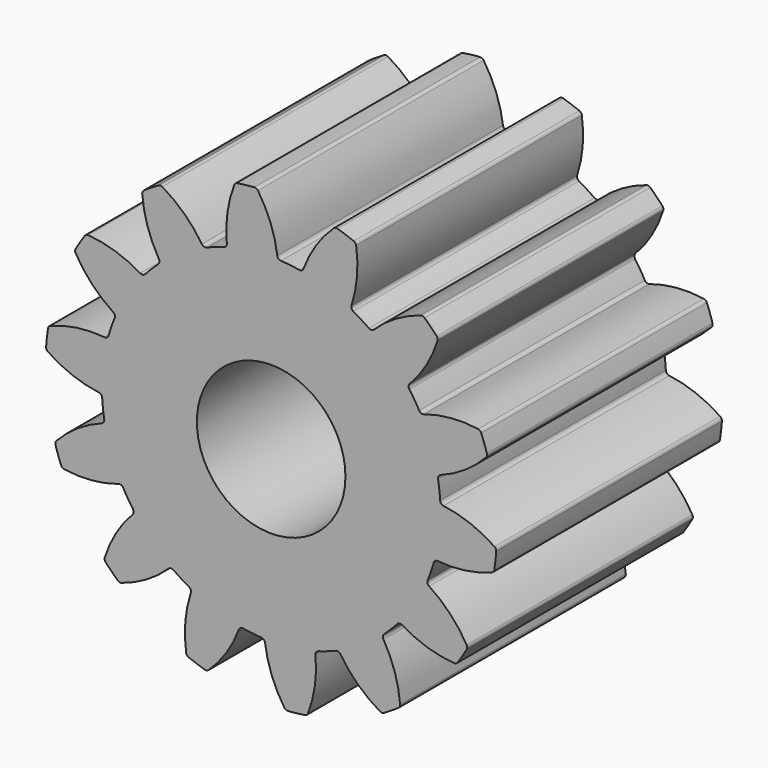
from build123d import *

# Parameters (mm, degrees)
F0_R     = 1.58
F1_DEPTH = 3


with BuildPart() as f1:
    # F0 (on Front) → F1 (new body, symmetric)
    with BuildSketch(Plane.XZ):
        with BuildLine():
            ThreePointArc((0.2088507024, 3.5939367529), (0.1565270314, 3.6162768256), (0.1304416503, 3.666837663))
            ThreePointArc((0.1304416503, 3.666837663), (-0.0120401481, 4.2323874238), (-0.280716, 4.7500368045))
            ThreePointArc((-0.280716, 4.7500368045), (-0.3136909929, 4.7785787328), (-0.3565322954, 4.7867405113))
            ThreePointArc((-0.3565322954, 4.7867405113), (-0.5374294853, 4.7698186075), (-0.7175566828, 4.7460628322))
            ThreePointArc((-0.7175566828, 4.7460628322), (-0.7575076978, 4.7285725999), (-0.7833047622, 4.6934086511))
            ThreePointArc((-0.7833047622, 4.6934086511), (-0.930056526, 4.1289518197), (-0.9431193472, 3.5458763893))
            ThreePointArc((-0.9431193472, 3.5458763893), (-0.9572998686, 3.4907786742), (-1.0033405421, 3.4573556017))
            ThreePointArc((-1.0033405421, 3.4573556017), (-1.189004623, 3.3979799891), (-1.3711827357, 3.3286420513))
            ThreePointArc((-1.3711827357, 3.3286420513), (-1.9153154755, 3.0482071172), (-2.4040689682, 2.6796366164))
            ThreePointArc((-2.4040689682, 2.6796366164), (-2.5455844123, 2.5455844123), (-2.6796366164, 2.4040689682))
            ThreePointArc((-2.6796366164, 2.4040689682), (-3.0482071172, 1.9153154755), (-3.3286420513, 1.3711827357))
            ThreePointArc((-3.3286420513, 1.3711827357), (-3.3979799891, 1.189004623), (-3.4573556017, 1.0033405421))
            ThreePointArc((-3.4573556017, 1.0033405421), (-3.5773639556, 0.403072114), (-3.5939367529, -0.2088507024))
            ThreePointArc((-3.5939367529, -0.2088507024), (-3.5773639556, -0.403072114), (-3.5503029084, -0.5961117836))
            ThreePointArc((-3.5503029084, -0.5961117836), (-3.3979799891, -1.189004623), (-3.147408204, -1.7475186974))
            ThreePointArc((-3.147408204, -1.7475186974), (-3.0482071172, -1.9153154755), (-2.9400691825, -2.0774968597))
            ThreePointArc((-2.9400691825, -2.0774968597), (-2.5455844123, -2.5455844123), (-2.0774968597, -2.9400691825))
            ThreePointArc((-2.0774968597, -2.9400691825), (-1.9153154755, -3.0482071172), (-1.7475186974, -3.147408204))
            ThreePointArc((-1.7475186974, -3.147408204), (-1.189004623, -3.3979799891), (-0.5961117836, -3.5503029084))
            ThreePointArc((-0.5961117836, -3.5503029084), (-0.403072114, -3.5773639556), (-0.2088507024, -3.5939367529))
            ThreePointArc((-0.2088507024, -3.5939367529), (0.403072114, -3.5773639556), (1.0033405421, -3.4573556017))
            ThreePointArc((1.0033405421, -3.4573556017), (1.189004623, -3.3979799891), (1.3711827357, -3.3286420513))
            ThreePointArc((1.3711827357, -3.3286420513), (1.9153154755, -3.0482071172), (2.4040689682, -2.6796366164))
            ThreePointArc((2.4040689682, -2.6796366164), (2.5455844123, -2.5455844123), (2.6796366164, -2.4040689682))
            ThreePointArc((2.6796366164, -2.4040689682), (3.0482071172, -1.9153154755), (3.3286420513, -1.3711827357))
            ThreePointArc((3.3286420513, -1.3711827357), (3.3979799891, -1.189004623), (3.4573556017, -1.0033405421))
            ThreePointArc((3.4573556017, -1.0033405421), (3.5773639556, -0.403072114), (3.5939367529, 0.2088507024))
            ThreePointArc((3.5939367529, 0.2088507024), (3.5773639556, 0.403072114), (3.5503029084, 0.5961117836))
            ThreePointArc((3.5503029084, 0.5961117836), (3.3979799891, 1.189004623), (3.147408204, 1.7475186974))
            ThreePointArc((3.147408204, 1.7475186974), (3.0482071172, 1.9153154755), (2.9400691825, 2.0774968597))
            ThreePointArc((2.9400691825, 2.0774968597), (2.5455844123, 2.5455844123), (2.0774968597, 2.9400691825))
            ThreePointArc((2.0774968597, 2.9400691825), (1.9153154755, 3.0482071172), (1.7475186974, 3.147408204))
            ThreePointArc((1.7475186974, 3.147408204), (1.189004623, 3.3979799891), (0.5961117836, 3.5503029084))
            ThreePointArc((0.5961117836, 3.5503029084), (0.403072114, 3.5773639556), (0.2088507024, 3.5939367529))
        make_face()
        Circle(F0_R, mode=Mode.SUBTRACT)
        with BuildLine():
            ThreePointArc((0.6887769357, 3.603928385), (0.6520947248, 3.5604397566), (0.5961117836, 3.5503029084))
            ThreePointArc((0.5961117836, 3.5503029084), (1.189004623, 3.3979799891), (1.7475186974, 3.147408204))
            ThreePointArc((1.7475186974, 3.147408204), (1.710069693, 3.1902383039), (1.7085051019, 3.2471100671))
            ThreePointArc((1.7085051019, 3.2471100671), (1.8255162822, 3.8184733302), (1.8080473529, 4.40143339))
            ThreePointArc((1.8080473529, 4.40143339), (1.7907217895, 4.441456092), (1.7556643727, 4.4673977448))
            ThreePointArc((1.7556643727, 4.4673977448), (1.5853394974, 4.5306399855), (1.4127432556, 4.5873910335))
            ThreePointArc((1.4127432556, 4.5873910335), (1.3691599074, 4.5889669745), (1.33066049, 4.5684782781))
            ThreePointArc((1.33066049, 4.5684782781), (0.9535330789, 4.1235934497), (0.6887769357, 3.603928385))
        make_face()
        with BuildLine():
            ThreePointArc((2.1842524992, 2.9481781647), (2.1323339605, 2.9249120793), (2.0774968597, 2.9400691825))
            ThreePointArc((2.0774968597, 2.9400691825), (2.5455844123, 2.5455844123), (2.9400691825, 2.0774968597))
            ThreePointArc((2.9400691825, 2.0774968597), (2.9249120793, 2.1323339605), (2.9481781647, 2.1842524992))
            ThreePointArc((2.9481781647, 2.1842524992), (3.3015068244, 2.6482637631), (3.5387047534, 3.1810721126))
            ThreePointArc((3.5387047534, 3.1810721126), (3.5404601597, 3.2246486013), (3.5201301799, 3.263232066))
            ThreePointArc((3.5201301799, 3.263232066), (3.3941125497, 3.3941125497), (3.263232066, 3.5201301799))
            ThreePointArc((3.263232066, 3.5201301799), (3.2246486013, 3.5404601597), (3.1810721126, 3.5387047534))
            ThreePointArc((3.1810721126, 3.5387047534), (2.6482637631, 3.3015068244), (2.1842524992, 2.9481781647))
        make_face()
        with BuildLine():
            ThreePointArc((3.2471100671, 1.7085051019), (3.1902383039, 1.710069693), (3.147408204, 1.7475186974))
            ThreePointArc((3.147408204, 1.7475186974), (3.3979799891, 1.189004623), (3.5503029084, 0.5961117836))
            ThreePointArc((3.5503029084, 0.5961117836), (3.5604397566, 0.6520947248), (3.603928385, 0.6887769357))
            ThreePointArc((3.603928385, 0.6887769357), (4.1235934497, 0.9535330789), (4.5684782781, 1.33066049))
            ThreePointArc((4.5684782781, 1.33066049), (4.5889669745, 1.3691599074), (4.5873910335, 1.4127432556))
            ThreePointArc((4.5873910335, 1.4127432556), (4.5306399855, 1.5853394974), (4.4673977448, 1.7556643727))
            ThreePointArc((4.4673977448, 1.7556643727), (4.441456092, 1.7907217895), (4.40143339, 1.8080473529))
            ThreePointArc((4.40143339, 1.8080473529), (3.8184733302, 1.8255162822), (3.2471100671, 1.7085051019))
        make_face()
        with BuildLine():
            ThreePointArc((-2.4040689682, 2.6796366164), (-1.9153154755, 3.0482071172), (-1.3711827357, 3.3286420513))
            ThreePointArc((-1.3711827357, 3.3286420513), (-1.4280177285, 3.3260673712), (-1.47345737, 3.360303089))
            ThreePointArc((-1.47345737, 3.360303089), (-1.8472118794, 3.8080252813), (-2.3138801065, 4.1578371745))
            ThreePointArc((-2.3138801065, 4.1578371745), (-2.3559734271, 4.1692452501), (-2.3981133698, 4.1580106139))
            ThreePointArc((-2.3981133698, 4.1580106139), (-2.5537539673, 4.0642761563), (-2.7057357199, 3.9647186803))
            ThreePointArc((-2.7057357199, 3.9647186803), (-2.7341416132, 3.9316264298), (-2.7421268996, 3.8887518799))
            ThreePointArc((-2.7421268996, 3.8887518799), (-2.6294370294, 3.3165206435), (-2.3882192768, 2.7855200874))
            ThreePointArc((-2.3882192768, 2.7855200874), (-2.3770894824, 2.7297260638), (-2.4040689682, 2.6796366164))
        make_face()
        with BuildLine():
            ThreePointArc((3.666837663, 0.1304416503), (3.6162768256, 0.1565270314), (3.5939367529, 0.2088507024))
            ThreePointArc((3.5939367529, 0.2088507024), (3.5773639556, -0.403072114), (3.4573556017, -1.0033405421))
            ThreePointArc((3.4573556017, -1.0033405421), (3.4907786742, -0.9572998686), (3.5458763893, -0.9431193472))
            ThreePointArc((3.5458763893, -0.9431193472), (4.1289518197, -0.930056526), (4.6934086511, -0.7833047622))
            ThreePointArc((4.6934086511, -0.7833047622), (4.7285725999, -0.7575076978), (4.7460628322, -0.7175566828))
            ThreePointArc((4.7460628322, -0.7175566828), (4.7698186075, -0.5374294853), (4.7867405113, -0.3565322954))
            ThreePointArc((4.7867405113, -0.3565322954), (4.7785787328, -0.3136909929), (4.7500368045, -0.280716))
            ThreePointArc((4.7500368045, -0.280716), (4.2323874238, -0.0120401481), (3.666837663, 0.1304416503))
        make_face()
        with BuildLine():
            ThreePointArc((-3.3286420513, 1.3711827357), (-3.0482071172, 1.9153154755), (-2.6796366164, 2.4040689682))
            ThreePointArc((-2.6796366164, 2.4040689682), (-2.7297260638, 2.3770894824), (-2.7855200874, 2.3882192768))
            ThreePointArc((-2.7855200874, 2.3882192768), (-3.3165206435, 2.6294370294), (-3.8887518799, 2.7421268996))
            ThreePointArc((-3.8887518799, 2.7421268996), (-3.9316264298, 2.7341416132), (-3.9647186803, 2.7057357199))
            ThreePointArc((-3.9647186803, 2.7057357199), (-4.0642761563, 2.5537539673), (-4.1580106139, 2.3981133698))
            ThreePointArc((-4.1580106139, 2.3981133698), (-4.1692452501, 2.3559734271), (-4.1578371745, 2.3138801065))
            ThreePointArc((-4.1578371745, 2.3138801065), (-3.8080252813, 1.8472118794), (-3.360303089, 1.47345737))
            ThreePointArc((-3.360303089, 1.47345737), (-3.3260673712, 1.4280177285), (-3.3286420513, 1.3711827357))
        make_face()
        with BuildLine():
            ThreePointArc((3.360303089, -1.47345737), (3.3260673712, -1.4280177285), (3.3286420513, -1.3711827357))
            ThreePointArc((3.3286420513, -1.3711827357), (3.0482071172, -1.9153154755), (2.6796366164, -2.4040689682))
            ThreePointArc((2.6796366164, -2.4040689682), (2.7297260638, -2.3770894824), (2.7855200874, -2.3882192768))
            ThreePointArc((2.7855200874, -2.3882192768), (3.3165206435, -2.6294370294), (3.8887518799, -2.7421268996))
            ThreePointArc((3.8887518799, -2.7421268996), (3.9316264298, -2.7341416132), (3.9647186803, -2.7057357199))
            ThreePointArc((3.9647186803, -2.7057357199), (4.0642761563, -2.5537539673), (4.1580106139, -2.3981133698))
            ThreePointArc((4.1580106139, -2.3981133698), (4.1692452501, -2.3559734271), (4.1578371745, -2.3138801065))
            ThreePointArc((4.1578371745, -2.3138801065), (3.8080252813, -1.8472118794), (3.360303089, -1.47345737))
        make_face()
        with BuildLine():
            ThreePointArc((-3.5939367529, -0.2088507024), (-3.5773639556, 0.403072114), (-3.4573556017, 1.0033405421))
            ThreePointArc((-3.4573556017, 1.0033405421), (-3.4907786742, 0.9572998686), (-3.5458763893, 0.9431193472))
            ThreePointArc((-3.5458763893, 0.9431193472), (-4.1289518197, 0.930056526), (-4.6934086511, 0.7833047622))
            ThreePointArc((-4.6934086511, 0.7833047622), (-4.7285725999, 0.7575076978), (-4.7460628322, 0.7175566828))
            ThreePointArc((-4.7460628322, 0.7175566828), (-4.7698186075, 0.5374294853), (-4.7867405113, 0.3565322954))
            ThreePointArc((-4.7867405113, 0.3565322954), (-4.7785787328, 0.3136909929), (-4.7500368045, 0.280716))
            ThreePointArc((-4.7500368045, 0.280716), (-4.2323874238, 0.0120401481), (-3.666837663, -0.1304416503))
            ThreePointArc((-3.666837663, -0.1304416503), (-3.6162768256, -0.1565270314), (-3.5939367529, -0.2088507024))
        make_face()
        with BuildLine():
            ThreePointArc((2.3882192768, -2.7855200874), (2.3770894824, -2.7297260638), (2.4040689682, -2.6796366164))
            ThreePointArc((2.4040689682, -2.6796366164), (1.9153154755, -3.0482071172), (1.3711827357, -3.3286420513))
            ThreePointArc((1.3711827357, -3.3286420513), (1.4280177285, -3.3260673712), (1.47345737, -3.360303089))
            ThreePointArc((1.47345737, -3.360303089), (1.8472118794, -3.8080252813), (2.3138801065, -4.1578371745))
            ThreePointArc((2.3138801065, -4.1578371745), (2.3559734271, -4.1692452501), (2.3981133698, -4.1580106139))
            ThreePointArc((2.3981133698, -4.1580106139), (2.5537539673, -4.0642761563), (2.7057357199, -3.9647186803))
            ThreePointArc((2.7057357199, -3.9647186803), (2.7341416132, -3.9316264298), (2.7421268996, -3.8887518799))
            ThreePointArc((2.7421268996, -3.8887518799), (2.6294370294, -3.3165206435), (2.3882192768, -2.7855200874))
        make_face()
        with BuildLine():
            ThreePointArc((-3.147408204, -1.7475186974), (-3.3979799891, -1.189004623), (-3.5503029084, -0.5961117836))
            ThreePointArc((-3.5503029084, -0.5961117836), (-3.5604397566, -0.6520947248), (-3.603928385, -0.6887769357))
            ThreePointArc((-3.603928385, -0.6887769357), (-4.1235934497, -0.9535330789), (-4.5684782781, -1.33066049))
            ThreePointArc((-4.5684782781, -1.33066049), (-4.5889669745, -1.3691599074), (-4.5873910335, -1.4127432556))
            ThreePointArc((-4.5873910335, -1.4127432556), (-4.5306399855, -1.5853394974), (-4.4673977448, -1.7556643727))
            ThreePointArc((-4.4673977448, -1.7556643727), (-4.441456092, -1.7907217895), (-4.40143339, -1.8080473529))
            ThreePointArc((-4.40143339, -1.8080473529), (-3.8184733302, -1.8255162822), (-3.2471100671, -1.7085051019))
            ThreePointArc((-3.2471100671, -1.7085051019), (-3.1902383039, -1.710069693), (-3.147408204, -1.7475186974))
        make_face()
        with BuildLine():
            ThreePointArc((0.9431193472, -3.5458763893), (0.9572998686, -3.4907786742), (1.0033405421, -3.4573556017))
            ThreePointArc((1.0033405421, -3.4573556017), (0.403072114, -3.5773639556), (-0.2088507024, -3.5939367529))
            ThreePointArc((-0.2088507024, -3.5939367529), (-0.1565270314, -3.6162768256), (-0.1304416503, -3.666837663))
            ThreePointArc((-0.1304416503, -3.666837663), (0.0120401481, -4.2323874238), (0.280716, -4.7500368045))
            ThreePointArc((0.280716, -4.7500368045), (0.3136909929, -4.7785787328), (0.3565322954, -4.7867405113))
            ThreePointArc((0.3565322954, -4.7867405113), (0.5374294853, -4.7698186075), (0.7175566828, -4.7460628322))
            ThreePointArc((0.7175566828, -4.7460628322), (0.7575076978, -4.7285725999), (0.7833047622, -4.6934086511))
            ThreePointArc((0.7833047622, -4.6934086511), (0.930056526, -4.1289518197), (0.9431193472, -3.5458763893))
        make_face()
        with BuildLine():
            ThreePointArc((-2.0774968597, -2.9400691825), (-2.5455844123, -2.5455844123), (-2.9400691825, -2.0774968597))
            ThreePointArc((-2.9400691825, -2.0774968597), (-2.9249120793, -2.1323339605), (-2.9481781647, -2.1842524992))
            ThreePointArc((-2.9481781647, -2.1842524992), (-3.3015068244, -2.6482637631), (-3.5387047534, -3.1810721126))
            ThreePointArc((-3.5387047534, -3.1810721126), (-3.5404601597, -3.2246486013), (-3.5201301799, -3.263232066))
            ThreePointArc((-3.5201301799, -3.263232066), (-3.3941125497, -3.3941125497), (-3.263232066, -3.5201301799))
            ThreePointArc((-3.263232066, -3.5201301799), (-3.2246486013, -3.5404601597), (-3.1810721126, -3.5387047534))
            ThreePointArc((-3.1810721126, -3.5387047534), (-2.6482637631, -3.3015068244), (-2.1842524992, -2.9481781647))
            ThreePointArc((-2.1842524992, -2.9481781647), (-2.1323339605, -2.9249120793), (-2.0774968597, -2.9400691825))
        make_face()
        with BuildLine():
            ThreePointArc((-0.6887769357, -3.603928385), (-0.6520947248, -3.5604397566), (-0.5961117836, -3.5503029084))
            ThreePointArc((-0.5961117836, -3.5503029084), (-1.189004623, -3.3979799891), (-1.7475186974, -3.147408204))
            ThreePointArc((-1.7475186974, -3.147408204), (-1.710069693, -3.1902383039), (-1.7085051019, -3.2471100671))
            ThreePointArc((-1.7085051019, -3.2471100671), (-1.8255162822, -3.8184733302), (-1.8080473529, -4.40143339))
            ThreePointArc((-1.8080473529, -4.40143339), (-1.7907217895, -4.441456092), (-1.7556643727, -4.4673977448))
            ThreePointArc((-1.7556643727, -4.4673977448), (-1.5853394974, -4.5306399855), (-1.4127432556, -4.5873910335))
            ThreePointArc((-1.4127432556, -4.5873910335), (-1.3691599074, -4.5889669745), (-1.33066049, -4.5684782781))
            ThreePointArc((-1.33066049, -4.5684782781), (-0.9535330789, -4.1235934497), (-0.6887769357, -3.603928385))
        make_face()
    extrude(amount=F1_DEPTH, both=True)


solid = f1.part
